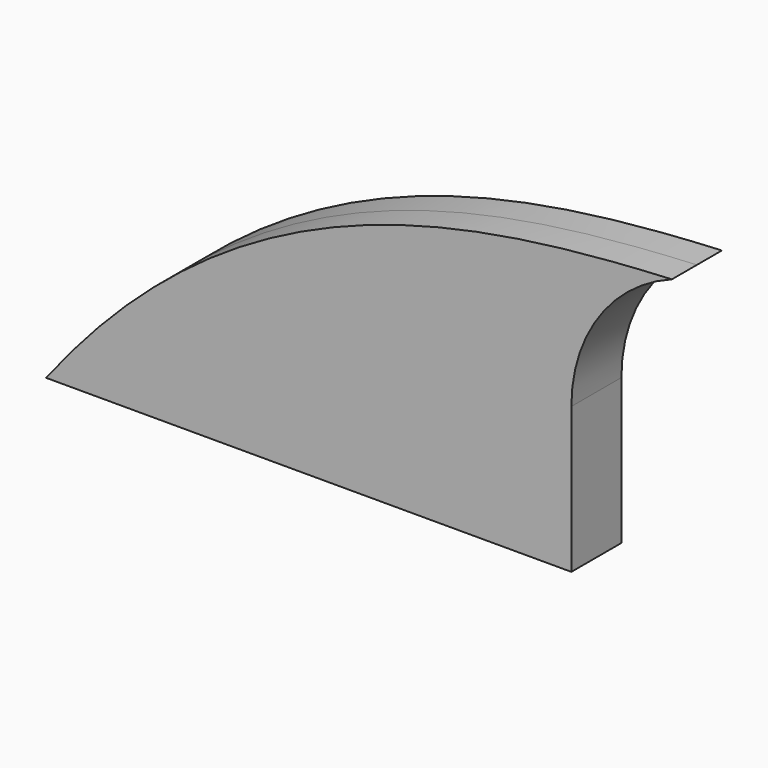
from build123d import *

# Parameters (mm, degrees)
F1_DEPTH = 6.35


with BuildPart() as f1:
    # F0 (on Front) → F1 (new body, symmetric)
    with BuildSketch(Plane.XZ):
        with BuildLine():
            Line((-63.5, 25.4), (43.18, 25.4))
            Line((43.18, 25.4), (43.18, 54.975352))
            ThreePointArc((43.18, 54.975352), (48.785666, 72.859274), (63.596736, 84.343627))
            add(Edge.make_bspline(
                [(-63.5, 25.4), (-25.21287, 74.923909), (20.350938, 82.18553), (63.596736, 84.343627)],
                knots=[0, 0, 0, 0, 132.266939, 132.266939, 132.266939, 132.266939], degree=3))
        make_face()
    extrude(amount=F1_DEPTH, both=True)


solid = f1.part
